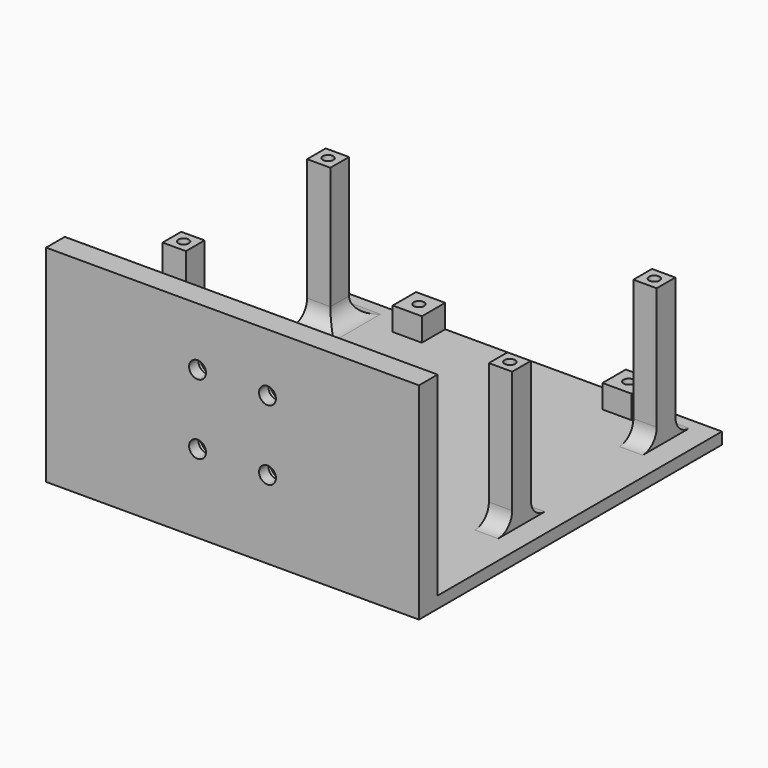
from build123d import *

# Parameters (mm, degrees)
SKETCH_W        = 64
SKETCH_H        = 61
PAD_DEPTH       = 2
SKETCH001_W     = 5
SKETCH001_H     = 5
PAD001_DEPTH    = 4
SKETCH002_R     = 0.9
POCKET_DEPTH    = 4
SKETCH003_W     = 4
SKETCH003_H     = 4
PAD002_DEPTH    = 24
SKETCH004_R     = 0.9
POCKET001_DEPTH = 4
FILLET_R        = 3
FILLET001_R     = 3
FILLET002_R     = 3
FILLET003_R     = 3
FILLET004_R     = 3
FILLET005_R     = 2.9
FILLET006_R     = 3
FILLET007_R     = 3
FILLET008_R     = 3
FILLET009_R     = 3
SKETCH005_W     = 64
SKETCH005_H     = 35.4
PAD003_DEPTH    = 4
SKETCH006_R     = 3
POCKET002_DEPTH = 2
SKETCH007_R     = 1.45
POCKET003_DEPTH = 5


with BuildPart() as part:
    # Sketch → Pad (new body)
    with BuildSketch(Plane.XY):
        Rectangle(SKETCH_W, SKETCH_H)
    extrude(amount=PAD_DEPTH)

    # Sketch001 (on Face6 of Pad) → Pad001 (join)
    with BuildSketch(Plane.XY.offset(2)):
        with Locations((-18, 28)):
            Rectangle(SKETCH001_W, SKETCH001_H)
        with Locations((18, 28)):
            Rectangle(SKETCH001_W, SKETCH001_H)
        with Locations((-18, -28)):
            Rectangle(SKETCH001_W, SKETCH001_H)
        with Locations((18, -28)):
            Rectangle(SKETCH001_W, SKETCH001_H)
    extrude(amount=PAD001_DEPTH)

    # Sketch002 (on Face26 of Pad001) → Pocket (cut)
    with BuildSketch(Plane.XY.offset(6)):
        with Locations((-18, -28)):
            Circle(SKETCH002_R)
        with Locations((18, -28)):
            Circle(SKETCH002_R)
        with Locations((18, 28)):
            Circle(SKETCH002_R)
        with Locations((-18, 28)):
            Circle(SKETCH002_R)
    extrude(amount=-POCKET_DEPTH, mode=Mode.SUBTRACT)

    # Sketch003 (on Face5 of Pocket) → Pad002 (join)
    with BuildSketch(Plane.XY.offset(2)):
        with Locations((-30, 23.5)):
            Rectangle(SKETCH003_W, SKETCH003_H)
        with Locations((-30, -7.5)):
            Rectangle(SKETCH003_W, SKETCH003_H)
        with Locations((26, 23.5)):
            Rectangle(SKETCH003_W, SKETCH003_H)
        with Locations((26, -7.5)):
            Rectangle(SKETCH003_W, SKETCH003_H)
    extrude(amount=PAD002_DEPTH)

    # Sketch004 (on Face42 of Pad002) → Pocket001 (cut)
    with BuildSketch(Plane.XY.offset(26)):
        with Locations((-30, 23.5)):
            Circle(SKETCH004_R)
        with Locations((26, 23.5)):
            Circle(SKETCH004_R)
        with Locations((26, -7.5)):
            Circle(SKETCH004_R)
        with Locations((-30, -7.5)):
            Circle(SKETCH004_R)
    extrude(amount=-POCKET001_DEPTH, mode=Mode.SUBTRACT)

    # Fillet
    fillet_edges = [part.edges().sort_by_distance(p)[0] for p in [
        (-30, 25.5, 2),
    ]]
    fillet(fillet_edges, radius=FILLET_R)

    # Fillet001
    fillet001_edges = [part.edges().sort_by_distance(p)[0] for p in [
        (-30, 21.5, 2),
    ]]
    fillet(fillet001_edges, radius=FILLET001_R)

    # Fillet002
    fillet002_edges = [part.edges().sort_by_distance(p)[0] for p in [
        (-28, 23.5, 2),
    ]]
    fillet(fillet002_edges, radius=FILLET002_R)

    # Fillet003
    fillet003_edges = [part.edges().sort_by_distance(p)[0] for p in [
        (-30, -9.5, 2),
    ]]
    fillet(fillet003_edges, radius=FILLET003_R)

    # Fillet004
    fillet004_edges = [part.edges().sort_by_distance(p)[0] for p in [
        (-30, -5.5, 2),
    ]]
    fillet(fillet004_edges, radius=FILLET004_R)

    # Fillet005
    fillet005_edges = [part.edges().sort_by_distance(p)[0] for p in [
        (-28, -7.5, 2),
    ]]
    fillet(fillet005_edges, radius=FILLET005_R)

    # Fillet006
    fillet006_edges = [part.edges().sort_by_distance(p)[0] for p in [
        (26, 25.5, 2),
    ]]
    fillet(fillet006_edges, radius=FILLET006_R)

    # Fillet007
    fillet007_edges = [part.edges().sort_by_distance(p)[0] for p in [
        (26, 21.5, 2),
    ]]
    fillet(fillet007_edges, radius=FILLET007_R)

    # Fillet008
    fillet008_edges = [part.edges().sort_by_distance(p)[0] for p in [
        (26, -9.5, 2),
    ]]
    fillet(fillet008_edges, radius=FILLET008_R)

    # Fillet009
    fillet009_edges = [part.edges().sort_by_distance(p)[0] for p in [
        (26, -5.5, 2),
    ]]
    fillet(fillet009_edges, radius=FILLET009_R)

    # Sketch005 (on Face20 of Fillet009) → Pad003 (join)
    with BuildSketch(Plane.XZ.offset(30.5)):
        with Locations((0, 17.7)):
            Rectangle(SKETCH005_W, SKETCH005_H)
    extrude(amount=PAD003_DEPTH)

    # Sketch006 (on Face20 of Pad003) → Pocket002 (cut)
    with BuildSketch(Plane(origin=(0, -30.5, 0), x_dir=(-1, 0, 0), z_dir=(0, 1, 0))):
        with Locations((6, 13.4)):
            Circle(SKETCH006_R)
        with Locations((-6, 13.4)):
            Circle(SKETCH006_R)
        with Locations((6, 25.4)):
            Circle(SKETCH006_R)
        with Locations((-6, 25.4)):
            Circle(SKETCH006_R)
    extrude(amount=-POCKET002_DEPTH, mode=Mode.SUBTRACT)

    # Sketch007 (on Face69 of Pocket002) → Pocket003 (cut)
    with BuildSketch(Plane.XZ.offset(34.5)):
        with Locations((-6, 25.4)):
            Circle(SKETCH007_R)
        with Locations((6, 25.4)):
            Circle(SKETCH007_R)
        with Locations((-6, 13.4)):
            Circle(SKETCH007_R)
        with Locations((6, 13.4)):
            Circle(SKETCH007_R)
    extrude(amount=-POCKET003_DEPTH, mode=Mode.SUBTRACT)


solid = part.part
